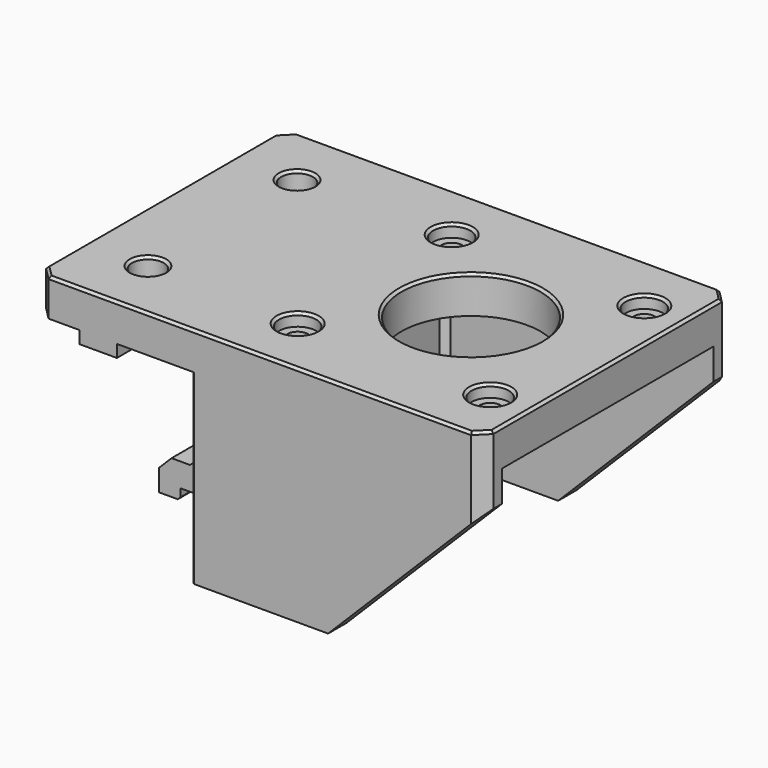
from build123d import *

# Parameters (mm, degrees)
BOX012_W           = 6
BOX012_H           = 20
BOX012_DEPTH       = 2
BOX013_W           = 6
BOX013_H           = 5
BOX013_DEPTH       = 2
BOX014_W           = 6
BOX014_H           = 5
BOX014_DEPTH       = 2
BOX010_W           = 3.4
BOX010_H           = 48
BOX010_DEPTH       = 2.5
CHAMFER020_SIZE    = 0.4
BOX009_W           = 6
BOX009_H           = 48
BOX009_DEPTH       = 3.8
CHAMFER021_SIZE    = 2
BOX008_W           = 3.7
BOX008_H           = 50
BOX008_DEPTH       = 30
BOX006_W           = 47
BOX006_H           = 3.7
BOX006_DEPTH       = 30
CHAMFER005_SIZE    = 25
CHAMFER016_SIZE    = 2
BOX007_W           = 47
BOX007_H           = 3.7
BOX007_DEPTH       = 30
CHAMFER006_SIZE    = 25
CHAMFER017_SIZE    = 2
CHAMFER019_SIZE    = 0.4
CHAMFER023_SIZE    = 1
CHAMFER033003_SIZE = 1
CYLINDER014_R      = 2.55
CYLINDER014_DEPTH  = 10
CYLINDER015_R      = 2.55
CYLINDER015_DEPTH  = 10
CYLINDER012_R      = 3
CYLINDER012_DEPTH  = 2
CYLINDER011_R      = 3
CYLINDER011_DEPTH  = 2
CYLINDER010_R      = 3
CYLINDER010_DEPTH  = 2
CYLINDER013_R      = 3
CYLINDER013_DEPTH  = 2
CYLINDER009_R      = 1.65
CYLINDER009_DEPTH  = 10
CYLINDER006_R      = 1.65
CYLINDER006_DEPTH  = 10
CYLINDER007_R      = 1.65
CYLINDER007_DEPTH  = 10
CYLINDER_R         = 11.2
CYLINDER_DEPTH     = 6
CYLINDER008_R      = 1.65
CYLINDER008_DEPTH  = 10
BOX005_W           = 72
BOX005_H           = 50
BOX005_DEPTH       = 6
CHAMFER033004_SIZE = 2
CHAMFER033005_SIZE = 0.4


with BuildPart() as cube012:
    # Box012 → Box012 (new body)
    with BuildSketch(Plane(origin=(-43, -10, -2), x_dir=(1, 0, 0), z_dir=(0, 0, 1))):
        with Locations((3, 10)):
            Rectangle(BOX012_W, BOX012_H)
    extrude(amount=BOX012_DEPTH)


with BuildPart() as cube013:
    # Box013 → Box013 (new body)
    with BuildSketch(Plane(origin=(-43, -25, -2), x_dir=(1, 0, 0), z_dir=(0, 0, 1))):
        with Locations((3, 2.5)):
            Rectangle(BOX013_W, BOX013_H)
    extrude(amount=BOX013_DEPTH)


with BuildPart() as fusion020005:
    # Box014 → Box014 (new body)
    with BuildSketch(Plane(origin=(-43, 20, -2), x_dir=(1, 0, 0), z_dir=(0, 0, 1))):
        with Locations((3, 2.5)):
            Rectangle(BOX014_W, BOX014_H)
    extrude(amount=BOX014_DEPTH)

    # Fusion020005: union Cube012, Cube013
    add(cube012.part)
    add(cube013.part)


with BuildPart() as chamfer020:
    # Box010 → Box010 (new body)
    with BuildSketch(Plane(origin=(-31, -24, -19.5), x_dir=(1, 0, 0), z_dir=(0, 0, 1))):
        with Locations((1.7, 24)):
            Rectangle(BOX010_W, BOX010_H)
    extrude(amount=BOX010_DEPTH)

    # Chamfer020
    chamfer020_edges = [chamfer020.edges().sort_by_distance(p)[0] for p in [
        (-27.6, 0, -19.5),
    ]]
    chamfer(chamfer020_edges, length=CHAMFER020_SIZE)


with BuildPart() as fusion014:
    # Box009 → Box009 (new body)
    with BuildSketch(Plane(origin=(-31, -24, -17.8), x_dir=(1, 0, 0), z_dir=(0, 0, 1))):
        with Locations((3, 24)):
            Rectangle(BOX009_W, BOX009_H)
    extrude(amount=BOX009_DEPTH)

    # Chamfer021
    chamfer021_edges = [fusion014.edges().sort_by_distance(p)[0] for p in [
        (-31, 0, -14),
    ]]
    chamfer(chamfer021_edges, length=CHAMFER021_SIZE)

    # Fusion014: union Chamfer020
    add(chamfer020.part)


with BuildPart() as cube008:
    # Box008 → Box008 (new body)
    with BuildSketch(Plane(origin=(-25, -25, -30), x_dir=(1, 0, 0), z_dir=(0, 0, 1))):
        with Locations((1.85, 25)):
            Rectangle(BOX008_W, BOX008_H)
    extrude(amount=BOX008_DEPTH)


with BuildPart() as chamfer016:
    # Box006 → Box006 (new body)
    with BuildSketch(Plane(origin=(-25, -25, -30), x_dir=(1, 0, 0), z_dir=(0, 0, 1))):
        with Locations((23.5, 1.85)):
            Rectangle(BOX006_W, BOX006_H)
    extrude(amount=BOX006_DEPTH)

    # Chamfer005
    chamfer005_edges = [chamfer016.edges().sort_by_distance(p)[0] for p in [
        (22, -23.15, -30),
    ]]
    chamfer(chamfer005_edges, length=CHAMFER005_SIZE)

    # Chamfer016
    chamfer016_edges = [chamfer016.edges().sort_by_distance(p)[0] for p in [
        (22, -25, -2.5),
    ]]
    chamfer(chamfer016_edges, length=CHAMFER016_SIZE)


with BuildPart() as chamfer033003:
    # Box007 → Box007 (new body)
    with BuildSketch(Plane(origin=(-25, 21.3, -30), x_dir=(1, 0, 0), z_dir=(0, 0, 1))):
        with Locations((23.5, 1.85)):
            Rectangle(BOX007_W, BOX007_H)
    extrude(amount=BOX007_DEPTH)

    # Chamfer006
    chamfer006_edges = [chamfer033003.edges().sort_by_distance(p)[0] for p in [
        (22, 23.15, -30),
    ]]
    chamfer(chamfer006_edges, length=CHAMFER006_SIZE)

    # Chamfer017
    chamfer017_edges = [chamfer033003.edges().sort_by_distance(p)[0] for p in [
        (22, 25, -2.5),
    ]]
    chamfer(chamfer017_edges, length=CHAMFER017_SIZE)

    # Fusion013: union Cube008, Chamfer016
    add(cube008.part)
    add(chamfer016.part)

    # Chamfer019
    chamfer019_edges = [chamfer033003.edges().sort_by_distance(p)[0] for p in [
        (-25, -25, -15),
        (-25, 25, -15),
    ]]
    chamfer(chamfer019_edges, length=CHAMFER019_SIZE)

    # Chamfer023
    chamfer023_edges = [chamfer033003.edges().sort_by_distance(p)[0] for p in [
        (-21.3, 21.3, -15),
        (-21.3, -21.3, -15),
    ]]
    chamfer(chamfer023_edges, length=CHAMFER023_SIZE)

    # Fusion020004: union Fusion014
    add(fusion014.part)

    # Chamfer033003
    chamfer033003_edges = [chamfer033003.edges().sort_by_distance(p)[0] for p in [
        (-25, 0, -14),
    ]]
    chamfer(chamfer033003_edges, length=CHAMFER033003_SIZE)


with BuildPart() as cylinder014:
    # Cylinder014 → Cylinder014 (new body)
    with BuildSketch(Plane(origin=(-40, -15, 0), x_dir=(1, 0, 0), z_dir=(0, 0, 1))):
        Circle(CYLINDER014_R)
    extrude(amount=CYLINDER014_DEPTH)


with BuildPart() as fusion020003:
    # Cylinder015 → Cylinder015 (new body)
    with BuildSketch(Plane(origin=(-40, 15, 0), x_dir=(1, 0, 0), z_dir=(0, 0, 1))):
        Circle(CYLINDER015_R)
    extrude(amount=CYLINDER015_DEPTH)

    # Fusion020003: union Cylinder014
    add(cylinder014.part)


with BuildPart() as cylinder012:
    # Cylinder012 → Cylinder012 (new body)
    with BuildSketch(Plane(origin=(-15.5, -15.5, 0), x_dir=(1, 0, 0), z_dir=(0, 0, 1))):
        Circle(CYLINDER012_R)
    extrude(amount=CYLINDER012_DEPTH)


with BuildPart() as cylinder011:
    # Cylinder011 → Cylinder011 (new body)
    with BuildSketch(Plane(origin=(-15.5, 15.5, 0), x_dir=(1, 0, 0), z_dir=(0, 0, 1))):
        Circle(CYLINDER011_R)
    extrude(amount=CYLINDER011_DEPTH)


with BuildPart() as cylinder010:
    # Cylinder010 → Cylinder010 (new body)
    with BuildSketch(Plane(origin=(15.5, 15.5, 0), x_dir=(1, 0, 0), z_dir=(0, 0, 1))):
        Circle(CYLINDER010_R)
    extrude(amount=CYLINDER010_DEPTH)


with BuildPart() as fusion003:
    # Cylinder013 → Cylinder013 (new body)
    with BuildSketch(Plane(origin=(15.5, -15.5, 0), x_dir=(1, 0, 0), z_dir=(0, 0, 1))):
        Circle(CYLINDER013_R)
    extrude(amount=CYLINDER013_DEPTH)

    # Fusion003: union Cylinder012, Cylinder011, Cylinder010
    add(cylinder012.part)
    add(cylinder011.part)
    add(cylinder010.part)


with BuildPart() as fusion003_1:
    # Fusion003 placement: moved
    add(fusion003.part.moved(Location((0, 0, 4))))


with BuildPart() as cylinder009:
    # Cylinder009 → Cylinder009 (new body)
    with BuildSketch(Plane(origin=(15.5, -15.5, 0), x_dir=(1, 0, 0), z_dir=(0, 0, 1))):
        Circle(CYLINDER009_R)
    extrude(amount=CYLINDER009_DEPTH)


with BuildPart() as cylinder006:
    # Cylinder006 → Cylinder006 (new body)
    with BuildSketch(Plane(origin=(-15.5, 15.5, 0), x_dir=(1, 0, 0), z_dir=(0, 0, 1))):
        Circle(CYLINDER006_R)
    extrude(amount=CYLINDER006_DEPTH)


with BuildPart() as cylinder007:
    # Cylinder007 → Cylinder007 (new body)
    with BuildSketch(Plane(origin=(15.5, 15.5, 0), x_dir=(1, 0, 0), z_dir=(0, 0, 1))):
        Circle(CYLINDER007_R)
    extrude(amount=CYLINDER007_DEPTH)


with BuildPart() as cylinder:
    # Cylinder → Cylinder (new body)
    with BuildSketch(Plane.XY):
        Circle(CYLINDER_R)
    extrude(amount=CYLINDER_DEPTH)


with BuildPart() as fusion012:
    # Cylinder008 → Cylinder008 (new body)
    with BuildSketch(Plane(origin=(-15.5, -15.5, 0), x_dir=(1, 0, 0), z_dir=(0, 0, 1))):
        Circle(CYLINDER008_R)
    extrude(amount=CYLINDER008_DEPTH)

    # Fusion012: union Fusion003, Cylinder009, Cylinder006, Cylinder007, Cylinder
    add(fusion003_1.part)
    add(cylinder009.part)
    add(cylinder006.part)
    add(cylinder007.part)
    add(cylinder.part)


with BuildPart() as motor_mount_r2:
    # Box005 → Box005 (new body)
    with BuildSketch(Plane(origin=(-50, -25, 0), x_dir=(1, 0, 0), z_dir=(0, 0, 1))):
        with Locations((36, 25)):
            Rectangle(BOX005_W, BOX005_H)
    extrude(amount=BOX005_DEPTH)

    # Cut001: cut Fusion012
    add(fusion012.part, mode=Mode.SUBTRACT)

    # Cut009: cut Fusion020003
    add(fusion020003.part, mode=Mode.SUBTRACT)

    # Chamfer033004
    chamfer033004_edges = [motor_mount_r2.edges().sort_by_distance(p)[0] for p in [
        (-50, -25, 3),
        (-50, 25, 3),
        (22, -25, 3),
        (22, 25, 3),
    ]]
    chamfer(chamfer033004_edges, length=CHAMFER033004_SIZE)

    # Chamfer033005
    chamfer033005_edges = [motor_mount_r2.edges().sort_by_distance(p)[0] for p in [
        (-50, 0, 6),
        (-49, -24, 6),
        (-49, 24, 6),
        (-14, -25, 6),
        (-14, 25, 6),
        (21, -24, 6),
        (21, 24, 6),
        (22, 0, 6),
        (12.5, 15.5, 6),
        (12.5, -15.5, 6),
        (-11.2, 0, 6),
        (-18.5, 15.5, 6),
        (-18.5, -15.5, 6),
        (-42.55, -15, 6),
        (-42.55, 15, 6),
    ]]
    chamfer(chamfer033005_edges, length=CHAMFER033005_SIZE)

    # Fusion020006: union Fusion020005, Chamfer033003
    add(fusion020005.part)
    add(chamfer033003.part)


solid = motor_mount_r2.part
